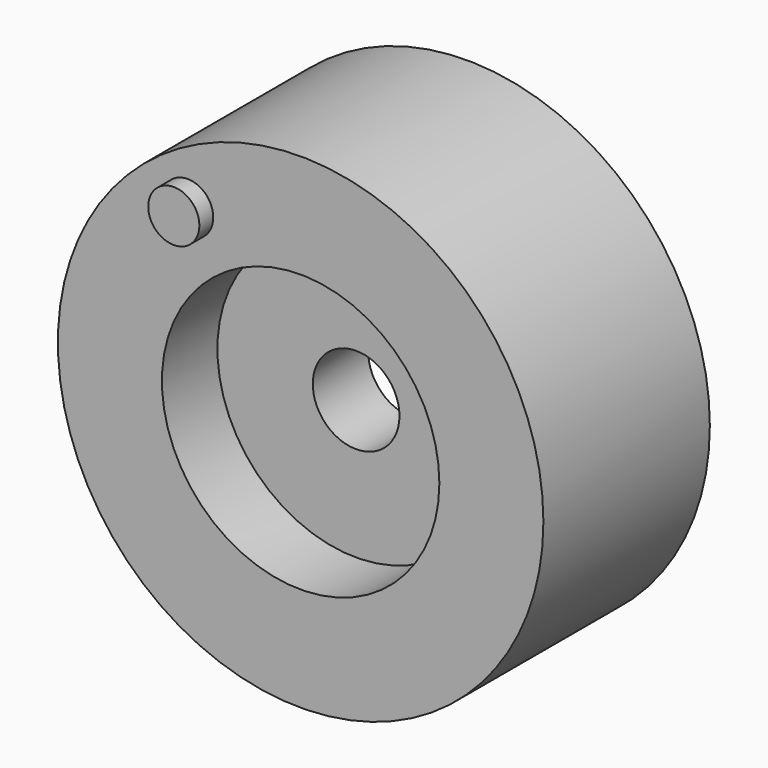
from build123d import *

# Parameters (mm, degrees)
F0_R     = 35
F0_R_2   = 20
F1_DEPTH = 15
F2_DEPTH = 5
F3_R     = 6.25
F4_DEPTH = 20
F5_R     = 3.686616
F6_DEPTH = 2.5


with BuildPart() as f1:
    # F0 (on Front) → F1 (new body, symmetric)
    with BuildSketch(Plane.XZ):
        Circle(F0_R)
        Circle(F0_R_2, mode=Mode.SUBTRACT)
    extrude(amount=F1_DEPTH, both=True)

    # F0 (on Front) → F2 (join, symmetric)
    with BuildSketch(Plane.XZ):
        Circle(F0_R_2)
    extrude(amount=F2_DEPTH, both=True)

    # F3 (on face) → F4 (cut, symmetric)
    with BuildSketch(Plane.XZ.offset(5)):
        Circle(F3_R)
    extrude(amount=F4_DEPTH, both=True, mode=Mode.SUBTRACT)

    # F5 (on face) → F6 (join)
    with BuildSketch(Plane.XZ.offset(15)):
        with Locations((-16.290108, 23.137607)):
            Circle(F5_R)
    extrude(amount=F6_DEPTH)


solid = f1.part
